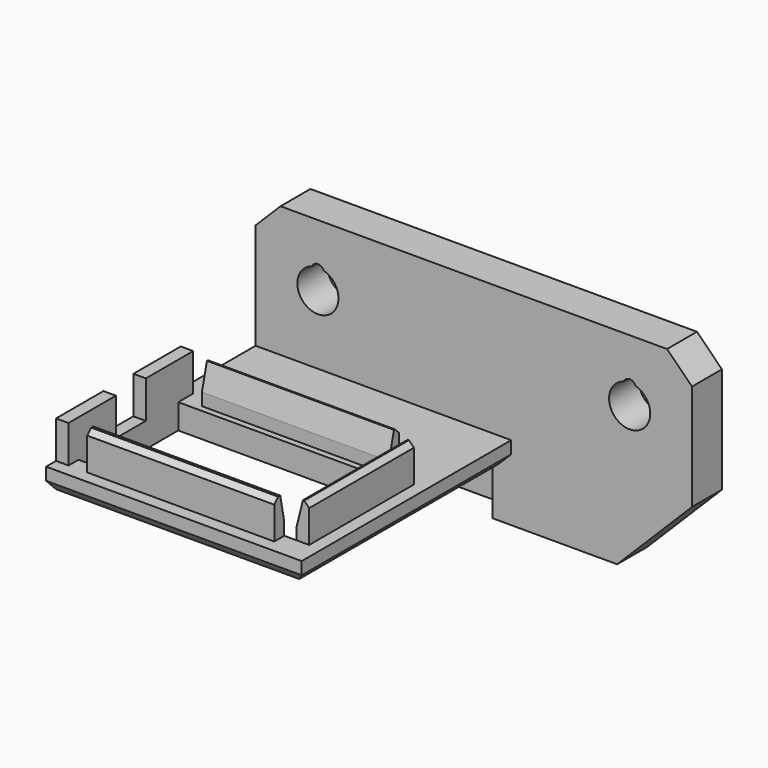
from build123d import *

# Parameters (mm, degrees)
BOX045_W          = 52
BOX045_H          = 59
BOX045_DEPTH      = 23
BOX042_W          = 14.5
BOX042_H          = 3
BOX042_DEPTH      = 9
CHAMFER018_SIZE   = 8
BOX041_W          = 19
BOX041_H          = 1
BOX041_DEPTH      = 10
BOX017_W          = 20.5
BOX017_H          = 12
BOX017_DEPTH      = 2
CHAMFER013_SIZE   = 1
BOX011_W          = 15
BOX011_H          = 1
BOX011_DEPTH      = 3
CHAMFER002_SIZE2  = 0.5
CHAMFER002_SIZE   = 2
CHAMFER007_SIZE   = 0.4
BOX013_W          = 15
BOX013_H          = 1
BOX013_DEPTH      = 3
CHAMFER003_SIZE2  = 0.4
CHAMFER003_SIZE   = 2
CHAMFER006_SIZE   = 0.4
BOX012_W          = 1
BOX012_H          = 10.5
BOX012_DEPTH      = 3
CHAMFER004_SIZE2  = 0.5
CHAMFER004_SIZE   = 2
CHAMFER005_SIZE   = 0.4
BOX018_W          = 17.5
BOX018_H          = 10.5
BOX018_DEPTH      = 2
BOX016_W          = 20.5
BOX016_H          = 13.5
BOX016_DEPTH      = 2
BOX014_W          = 1
BOX014_H          = 4.75
BOX014_DEPTH      = 3
BOX015_W          = 1
BOX015_H          = 4.75
BOX015_DEPTH      = 3
CHAMFER012_SIZE   = 1
CYLINDER_R        = 1.65
CYLINDER_DEPTH    = 10
CYLINDER001_R     = 1.65
CYLINDER001_DEPTH = 10
CYLINDER002_R     = 0.5
CYLINDER002_DEPTH = 10
CYLINDER003_R     = 0.5
CYLINDER003_DEPTH = 10
BOX005_W          = 35
BOX005_H          = 3
BOX005_DEPTH      = 10
CHAMFER001_SIZE   = 2
BOX040_W          = 35
BOX040_H          = 3
BOX040_DEPTH      = 3
CHAMFER014_SIZE   = 2


with BuildPart() as cube045:
    # Box045 → Box045 (new body)
    with BuildSketch(Plane(origin=(-38, -38.5, -19.5), x_dir=(1, 0, 0), z_dir=(0, 0, 1))):
        with Locations((26, 29.5)):
            Rectangle(BOX045_W, BOX045_H)
    extrude(amount=BOX045_DEPTH)


with BuildPart() as chamfer018:
    # Box042 → Box042 (new body)
    with BuildSketch(Plane(origin=(-19, -7, 0), x_dir=(1, 0, 0), z_dir=(0, 0, 1))):
        with Locations((7.25, 1.5)):
            Rectangle(BOX042_W, BOX042_H)
    extrude(amount=BOX042_DEPTH)

    # Chamfer018
    chamfer018_edges = [chamfer018.edges().sort_by_distance(p)[0] for p in [
        (-4.5, -5.5, 0),
    ]]
    chamfer(chamfer018_edges, length=CHAMFER018_SIZE)


with BuildPart() as cube041:
    # Box041 → Box041 (new body)
    with BuildSketch(Plane(origin=(-38, -5, 0), x_dir=(1, 0, 0), z_dir=(0, 0, 1))):
        with Locations((9.5, 0.5)):
            Rectangle(BOX041_W, BOX041_H)
    extrude(amount=BOX041_DEPTH)


with BuildPart() as chamfer013:
    # Box017 → Box017 (new body)
    with BuildSketch(Plane(origin=(-38, -16, 7.5), x_dir=(1, 0, 0), z_dir=(0, 0, 1))):
        with Locations((10.25, 6)):
            Rectangle(BOX017_W, BOX017_H)
    extrude(amount=BOX017_DEPTH)

    # Chamfer013
    chamfer013_edges = [chamfer013.edges().sort_by_distance(p)[0] for p in [
        (-17.5, -10, 7.5),
    ]]
    chamfer(chamfer013_edges, length=CHAMFER013_SIZE)


with BuildPart() as chamfer007:
    # Box011 → Box011 (new body)
    with BuildSketch(Plane(origin=(0, -22.5, 0), x_dir=(1, 0, 0), z_dir=(0, 0, 1))):
        with Locations((7.5, 0.5)):
            Rectangle(BOX011_W, BOX011_H)
    extrude(amount=BOX011_DEPTH)

    # Chamfer002
    chamfer002_edges = [chamfer007.edges().sort_by_distance(p)[0] for p in [
        (7.5, -22.5, 3),
    ]]
    chamfer002_side = chamfer007.faces().sort_by_distance((7.5, -22.5, 1.5))[0]
    chamfer(chamfer002_edges, length=CHAMFER002_SIZE, length2=CHAMFER002_SIZE2, reference=chamfer002_side)

    # Chamfer007
    chamfer007_edges = [chamfer007.edges().sort_by_distance(p)[0] for p in [
        (7.5, -21.5, 3),
    ]]
    chamfer(chamfer007_edges, length=CHAMFER007_SIZE)


with BuildPart() as chamfer006:
    # Box013 → Box013 (new body)
    with BuildSketch(Plane(origin=(0, -34, 0), x_dir=(1, 0, 0), z_dir=(0, 0, 1))):
        with Locations((7.5, 0.5)):
            Rectangle(BOX013_W, BOX013_H)
    extrude(amount=BOX013_DEPTH)

    # Chamfer003
    chamfer003_edges = [chamfer006.edges().sort_by_distance(p)[0] for p in [
        (7.5, -33, 3),
    ]]
    chamfer003_side = chamfer006.faces().sort_by_distance((7.5, -33, 1.5))[0]
    chamfer(chamfer003_edges, length=CHAMFER003_SIZE, length2=CHAMFER003_SIZE2, reference=chamfer003_side)

    # Chamfer006
    chamfer006_edges = [chamfer006.edges().sort_by_distance(p)[0] for p in [
        (7.5, -34, 3),
    ]]
    chamfer(chamfer006_edges, length=CHAMFER006_SIZE)


with BuildPart() as chamfer005:
    # Box012 → Box012 (new body)
    with BuildSketch(Plane(origin=(16, -33, 0), x_dir=(1, 0, 0), z_dir=(0, 0, 1))):
        with Locations((0.5, 5.25)):
            Rectangle(BOX012_W, BOX012_H)
    extrude(amount=BOX012_DEPTH)

    # Chamfer004
    chamfer004_edges = [chamfer005.edges().sort_by_distance(p)[0] for p in [
        (16, -27.75, 3),
    ]]
    chamfer004_side = chamfer005.faces().sort_by_distance((16, -27.75, 1.5))[0]
    chamfer(chamfer004_edges, length=CHAMFER004_SIZE, length2=CHAMFER004_SIZE2, reference=chamfer004_side)

    # Chamfer005
    chamfer005_edges = [chamfer005.edges().sort_by_distance(p)[0] for p in [
        (17, -27.75, 3),
    ]]
    chamfer(chamfer005_edges, length=CHAMFER005_SIZE)


with BuildPart() as cube018:
    # Box018 → Box018 (new body)
    with BuildSketch(Plane(origin=(-1.5, -33, -2), x_dir=(1, 0, 0), z_dir=(0, 0, 1))):
        with Locations((8.75, 5.25)):
            Rectangle(BOX018_W, BOX018_H)
    extrude(amount=BOX018_DEPTH)


with BuildPart() as cut004:
    # Box016 → Box016 (new body)
    with BuildSketch(Plane(origin=(-2.5, -35, -2), x_dir=(1, 0, 0), z_dir=(0, 0, 1))):
        with Locations((10.25, 6.75)):
            Rectangle(BOX016_W, BOX016_H)
    extrude(amount=BOX016_DEPTH)

    # Cut004: cut Cube018
    add(cube018.part, mode=Mode.SUBTRACT)


with BuildPart() as cube014:
    # Box014 → Box014 (new body)
    with BuildSketch(Plane(origin=(-2.5, -34, 0), x_dir=(1, 0, 0), z_dir=(0, 0, 1))):
        with Locations((0.5, 2.375)):
            Rectangle(BOX014_W, BOX014_H)
    extrude(amount=BOX014_DEPTH)


with BuildPart() as chamfer012:
    # Box015 → Box015 (new body)
    with BuildSketch(Plane(origin=(-2.5, -26.25, 0), x_dir=(1, 0, 0), z_dir=(0, 0, 1))):
        with Locations((0.5, 2.375)):
            Rectangle(BOX015_W, BOX015_H)
    extrude(amount=BOX015_DEPTH)

    # Fusion004002002: union Chamfer007, Chamfer006, Chamfer005, Cut004, Cube014
    add(chamfer007.part)
    add(chamfer006.part)
    add(chamfer005.part)
    add(cut004.part)
    add(cube014.part)


with BuildPart() as chamfer012_1:
    # Fusion004002002 placement: moved
    add(chamfer012.part.moved(Location((-35.5, 7, 9.5))))

    # Chamfer012
    chamfer012_edges = [chamfer012_1.edges().sort_by_distance(p)[0] for p in [
        (-27.75, -28, 7.5),
        (-17.5, -21.25, 7.5),
    ]]
    chamfer(chamfer012_edges, length=CHAMFER012_SIZE)


with BuildPart() as cylinder:
    # Cylinder → Cylinder (new body)
    with BuildSketch(Plane(origin=(5, 0, 5), x_dir=(1, 0, 0), z_dir=(0, 1, 0))):
        Circle(CYLINDER_R)
    extrude(amount=CYLINDER_DEPTH)


with BuildPart() as fusion001:
    # Cylinder001 → Cylinder001 (new body)
    with BuildSketch(Plane(origin=(30, 0, 5), x_dir=(1, 0, 0), z_dir=(0, 1, 0))):
        Circle(CYLINDER001_R)
    extrude(amount=CYLINDER001_DEPTH)

    # Fusion001: union Cylinder
    add(cylinder.part)


with BuildPart() as cylinder002:
    # Cylinder002 → Cylinder002 (new body)
    with BuildSketch(Plane(origin=(30, 0, 5), x_dir=(1, 0, 0), z_dir=(0, 1, 0))):
        Circle(CYLINDER002_R)
    extrude(amount=CYLINDER002_DEPTH)


with BuildPart() as fusion003:
    # Cylinder003 → Cylinder003 (new body)
    with BuildSketch(Plane(origin=(5, 0, 5), x_dir=(1, 0, 0), z_dir=(0, 1, 0))):
        Circle(CYLINDER003_R)
    extrude(amount=CYLINDER003_DEPTH)

    # Fusion002: union Cylinder002
    add(cylinder002.part)


with BuildPart() as fusion003_1:
    # Fusion002 placement: moved
    add(fusion003.part.moved(Location((0, 0, 1.4))))

    # Fusion003: union Fusion001
    add(fusion001.part)


with BuildPart() as obj1:
    # Box005 → Box005 (new body)
    with BuildSketch(Plane.XY):
        with Locations((17.5, 1.5)):
            Rectangle(BOX005_W, BOX005_H)
    extrude(amount=BOX005_DEPTH)

    # Chamfer001
    chamfer001_edges = [obj1.edges().sort_by_distance(p)[0] for p in [
        (0, 1.5, 10),
        (35, 1.5, 10),
    ]]
    chamfer(chamfer001_edges, length=CHAMFER001_SIZE)

    # Cut003: cut Fusion003
    add(fusion003_1.part, mode=Mode.SUBTRACT)


with BuildPart() as obj1_1:
    # Cut003 placement: moved
    add(obj1.part.moved(Location((-38, -7, 10))))


with BuildPart() as cut024:
    # Box040 → Box040 (new body)
    with BuildSketch(Plane(origin=(-38, -7, 7.5), x_dir=(1, 0, 0), z_dir=(0, 0, 1))):
        with Locations((17.5, 1.5)):
            Rectangle(BOX040_W, BOX040_H)
    extrude(amount=BOX040_DEPTH)

    # Chamfer014
    chamfer014_edges = [cut024.edges().sort_by_distance(p)[0] for p in [
        (-3, -5.5, 7.5),
    ]]
    chamfer(chamfer014_edges, length=CHAMFER014_SIZE)

    # Fusion004002006004: union Chamfer013, Chamfer012, obj1
    add(chamfer013.part)
    add(chamfer012_1.part)
    add(obj1_1.part)

    # Fusion004002006005: union Chamfer018, Cube041
    add(chamfer018.part)
    add(cube041.part)

    # Cut024: cut Cube045
    add(cube045.part, mode=Mode.SUBTRACT)


solid = cut024.part
